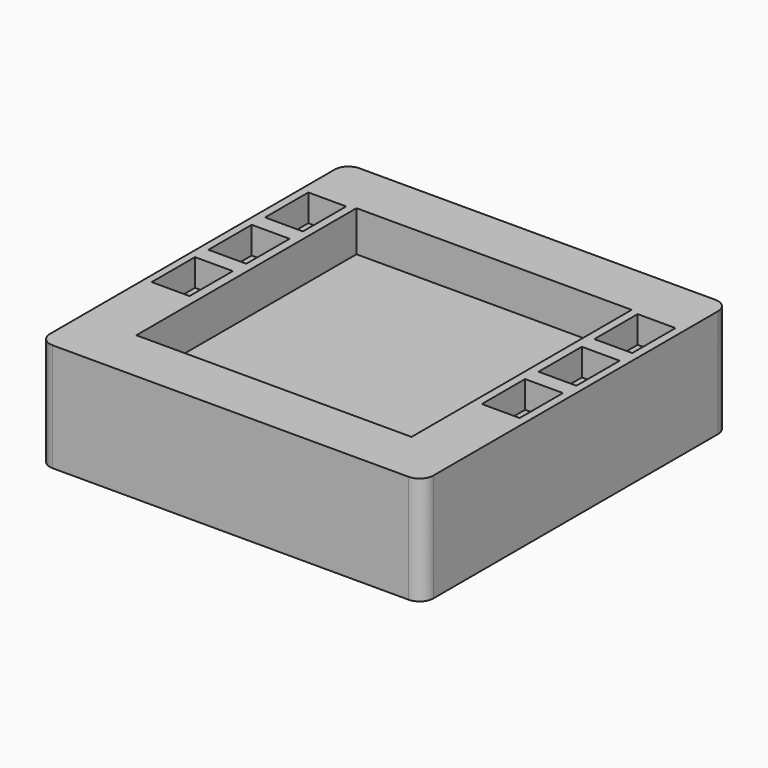
from build123d import *

# Parameters (mm, degrees)
F1_DEPTH = 40
F2_W     = 101.732
F2_H     = 101.732004
F3_DEPTH = 15
F4_W     = 14
F4_H     = 20
F5_DEPTH = 10


with BuildPart() as f1:
    # F0 (on Top) → F1 (new body)
    with BuildSketch(Plane.XY):
        with BuildLine():
            Line((59.91943, 70.866002), (-71.65257, 70.866002))
            ThreePointArc((-71.65257, 70.866002), (-75.244673, 69.378105), (-76.73257, 65.786002))
            Line((-76.73257, 65.786002), (-76.73257, -65.786002))
            ThreePointArc((-76.73257, -65.786002), (-75.244673, -69.378105), (-71.65257, -70.866002))
            Line((-71.65257, -70.866002), (59.91943, -70.866002))
            ThreePointArc((59.91943, -70.866002), (63.511532, -69.378105), (64.99943, -65.786002))
            Line((64.99943, -65.786002), (64.99943, 65.786002))
            ThreePointArc((64.99943, 65.786002), (63.511532, 69.378105), (59.91943, 70.866002))
        make_face()
    extrude(amount=F1_DEPTH)

    # F2 (on face) → F3 (cut)
    with BuildSketch(Plane.XY.offset(40)):
        with Locations((-5.86657, 0)):
            Rectangle(F2_W, F2_H)
    extrude(amount=-F3_DEPTH, mode=Mode.SUBTRACT)

    # F4 (on face) → F5 (cut)
    with BuildSketch(Plane.XY.offset(40)):
        with Locations((-66.73257, 39.860209)):
            Rectangle(F4_W, F4_H)
        with Locations((-66.859915, 13.860209)):
            Rectangle(F4_W, F4_H)
        with Locations((-67.03256, -12.139791)):
            Rectangle(F4_W, F4_H)
        with Locations((54.99943, 39.860209)):
            Rectangle(F4_W, F4_H)
        with Locations((55.172075, 13.860209)):
            Rectangle(F4_W, F4_H)
        with Locations((54.99943, -12.139791)):
            Rectangle(F4_W, F4_H)
    extrude(amount=-F5_DEPTH, mode=Mode.SUBTRACT)


solid = f1.part
